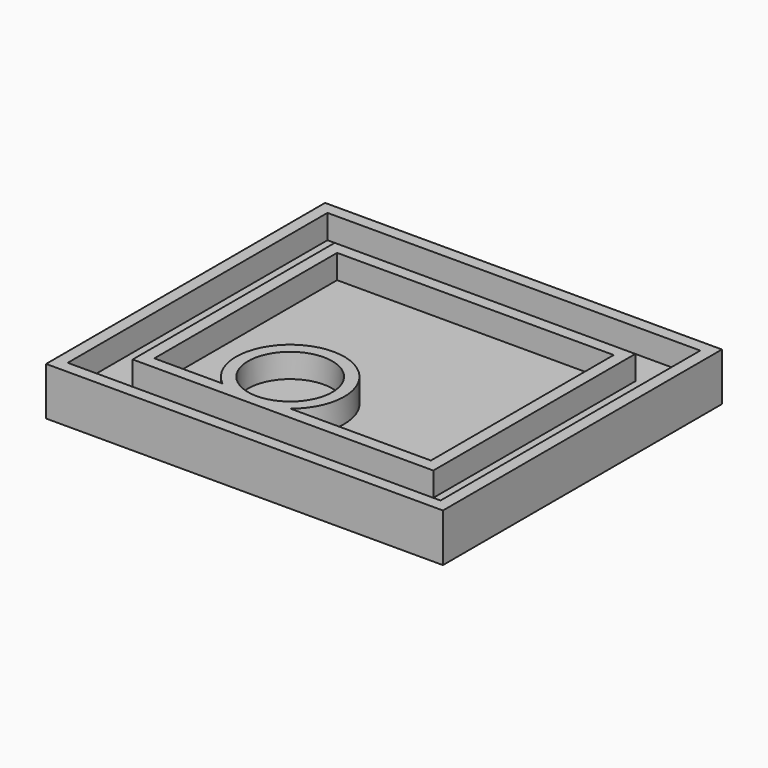
from build123d import *

# Parameters (mm, degrees)
F0_W     = 33
F0_H     = 29
F1_DEPTH = 2
F2_W     = 33
F2_H     = 29
F2_W_2   = 31
F2_H_2   = 27
F3_DEPTH = 2
F4_W     = 25
F4_H     = 21
F4_W_2   = 23
F4_H_2   = 19
F5_DEPTH = 2
F6_R     = 4.5
F6_R_2   = 3.5
F7_DEPTH = 2


with BuildPart() as f1:
    # F0 (on Top) → F1 (new body)
    with BuildSketch(Plane.XY):
        Rectangle(F0_W, F0_H)
    extrude(amount=F1_DEPTH)

    # F2 (on face) → F3 (join)
    with BuildSketch(Plane.XY.offset(2)):
        Rectangle(F2_W, F2_H)
        Rectangle(F2_W_2, F2_H_2, mode=Mode.SUBTRACT)
    extrude(amount=F3_DEPTH)

    # F4 (on face) → F5 (join)
    with BuildSketch(Plane.XY.offset(2)):
        Rectangle(F4_W, F4_H)
        Rectangle(F4_W_2, F4_H_2, mode=Mode.SUBTRACT)
    extrude(amount=F5_DEPTH)

    # F6 (on face) → F7 (join)
    with BuildSketch(Plane.XY.offset(2)):
        with Locations((-3, -6)):
            Circle(F6_R)
        with Locations((-3, -6)):
            Circle(F6_R_2, mode=Mode.SUBTRACT)
    extrude(amount=F7_DEPTH)


solid = f1.part
